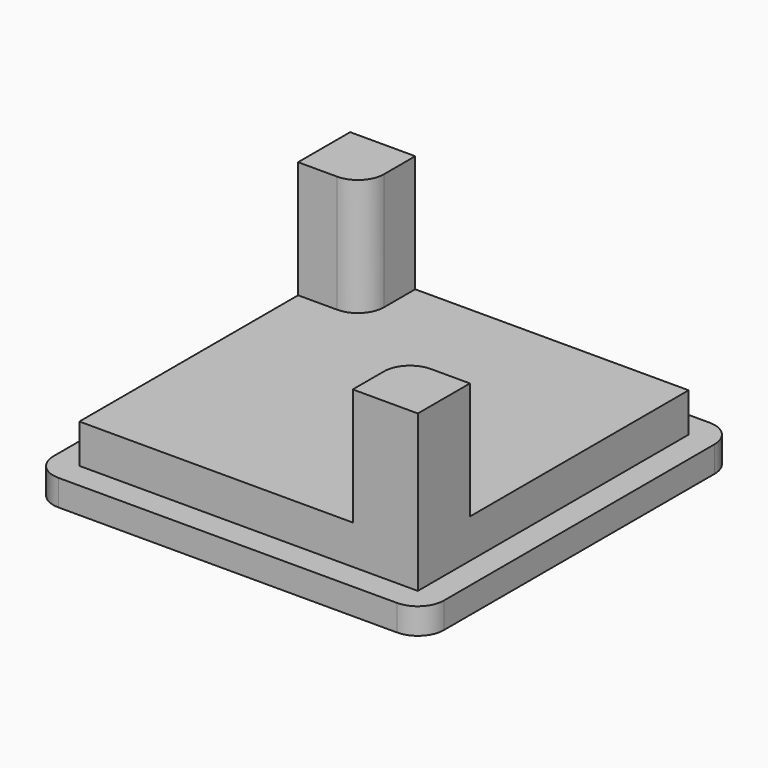
from build123d import *

# Parameters (mm, degrees)
BOX013_W     = 26
BOX013_H     = 26
BOX013_DEPTH = 3
BOX014_W     = 5
BOX014_H     = 5
BOX014_DEPTH = 9
BOX012_W     = 30
BOX012_H     = 30
BOX012_DEPTH = 2
BOX015_W     = 5
BOX015_H     = 5
BOX015_DEPTH = 9
FILLET001_R  = 2
FILLET002_R  = 2


with BuildPart() as obj1:
    # Box013 → Box013 (new body)
    with BuildSketch(Plane(origin=(-13, -13, -10), x_dir=(1, 0, 0), z_dir=(0, 0, 1))):
        with Locations((13, 13)):
            Rectangle(BOX013_W, BOX013_H)
    extrude(amount=BOX013_DEPTH)


with BuildPart() as obj2:
    # Box014 → Box014 (new body)
    with BuildSketch(Plane(origin=(-13, 8, -7), x_dir=(1, 0, 0), z_dir=(0, 0, 1))):
        with Locations((2.5, 2.5)):
            Rectangle(BOX014_W, BOX014_H)
    extrude(amount=BOX014_DEPTH)


with BuildPart() as obj3:
    # Box012 → Box012 (new body)
    with BuildSketch(Plane(origin=(-15, -15, -12), x_dir=(1, 0, 0), z_dir=(0, 0, 1))):
        with Locations((15, 15)):
            Rectangle(BOX012_W, BOX012_H)
    extrude(amount=BOX012_DEPTH)


with BuildPart() as fillet002:
    # Box015 → Box015 (new body)
    with BuildSketch(Plane(origin=(8, -13, -7), x_dir=(1, 0, 0), z_dir=(0, 0, 1))):
        with Locations((2.5, 2.5)):
            Rectangle(BOX015_W, BOX015_H)
    extrude(amount=BOX015_DEPTH)

    # Fusion004: union obj1, obj2, obj3
    add(obj1.part)
    add(obj2.part)
    add(obj3.part)

    # Fillet001
    fillet001_edges = [fillet002.edges().sort_by_distance(p)[0] for p in [
        (-15, -15, -11),
        (-15, 15, -11),
        (15, 15, -11),
        (15, -15, -11),
    ]]
    fillet(fillet001_edges, radius=FILLET001_R)

    # Fillet002
    fillet002_edges = [fillet002.edges().sort_by_distance(p)[0] for p in [
        (-8, 8, -2.5),
        (8, -8, -2.5),
    ]]
    fillet(fillet002_edges, radius=FILLET002_R)


solid = fillet002.part
